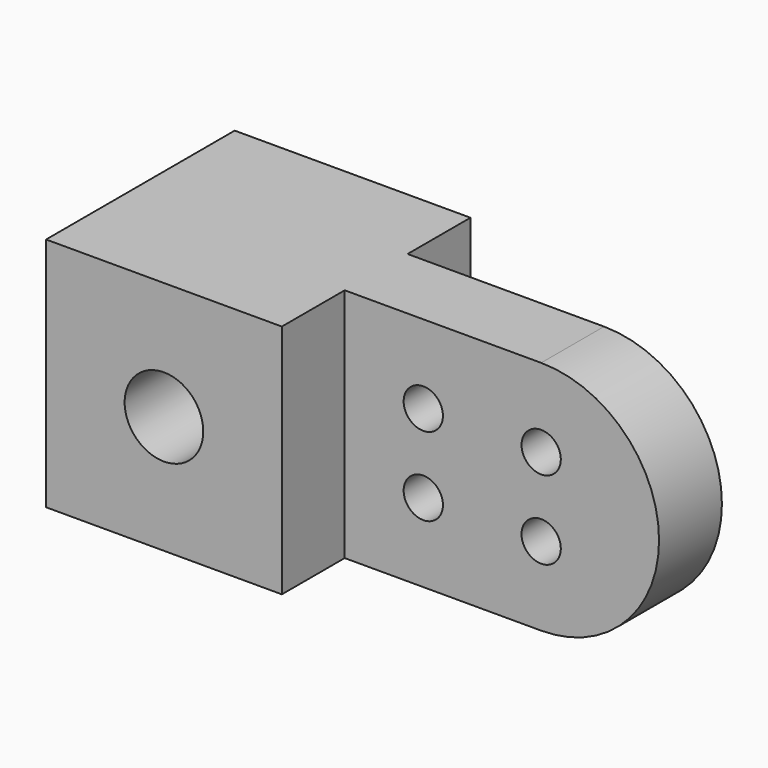
from build123d import *

# Parameters (mm, degrees)
F0_W     = 38.1
F0_H     = 38.1
F0_R     = 6.35
F1_DEPTH = 19.05
F0_R_2   = 3.175
F2_DEPTH = 6.35


with BuildPart() as f1:
    # F0 (on Front) → F1 (new body, symmetric)
    with BuildSketch(Plane.XZ):
        with Locations((19.05, 19.05)):
            Rectangle(F0_W, F0_H)
        with Locations((19.05, 19.05)):
            Circle(F0_R, mode=Mode.SUBTRACT)
    extrude(amount=F1_DEPTH, both=True)

    # F0 (on Front) → F2 (join, symmetric)
    with BuildSketch(Plane.XZ):
        with BuildLine():
            Line((38.1, 38.1), (38.1, 0))
            Line((38.1, 0), (69.85, 0))
            ThreePointArc((69.85, 0), (88.9, 19.05), (69.85, 38.1))
            Line((69.85, 38.1), (38.1, 38.1))
        make_face()
        with Locations((50.8, 12.7)):
            Circle(F0_R_2, mode=Mode.SUBTRACT)
        with Locations((69.85, 12.7)):
            Circle(F0_R_2, mode=Mode.SUBTRACT)
        with Locations((50.8, 25.4)):
            Circle(F0_R_2, mode=Mode.SUBTRACT)
        with Locations((69.85, 25.4)):
            Circle(F0_R_2, mode=Mode.SUBTRACT)
    extrude(amount=F2_DEPTH, both=True)


solid = f1.part
